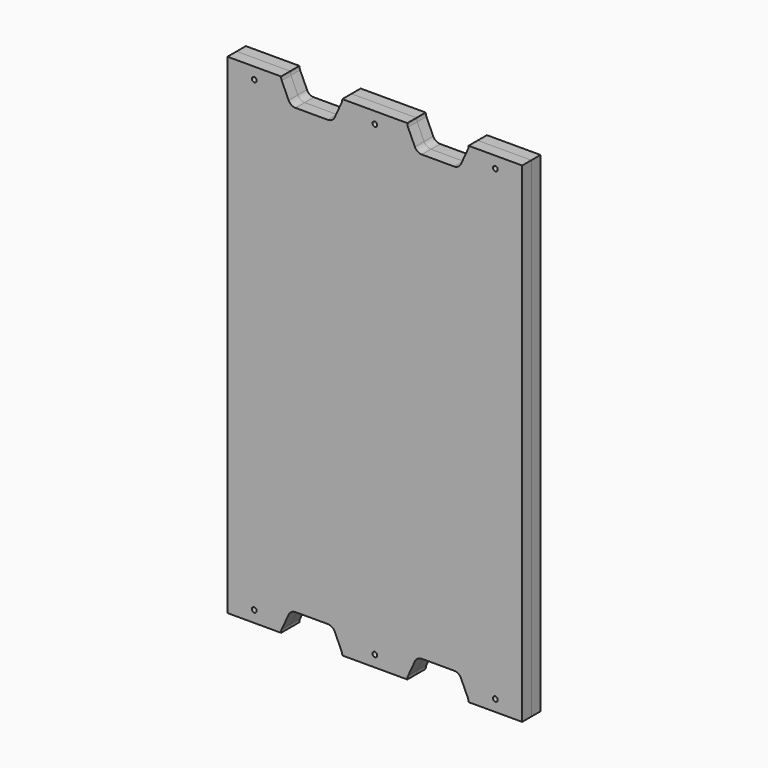
from build123d import *

# Parameters (mm, degrees)
F0_R     = 1.984375
F1_DEPTH = 9.525
F2_DEPTH = 9.525


with BuildPart() as f1:
    # F0 (on Front) → F1 (new body)
    with BuildSketch(Plane.XZ):
        with BuildLine():
            Line((-77.409625, 189.415018), (-121.859625, 189.415018))
            Line((-121.859625, 189.415018), (-121.859625, -216.984982))
            Line((-121.859625, -216.984982), (-77.409625, -216.984982))
            Line((-77.409625, -216.984982), (-77.409625, -216.772931))
            ThreePointArc((-77.409625, -216.772931), (-77.265701, -215.428637), (-76.840451, -214.14528))
            Line((-76.840451, -214.14528), (-71.164103, -201.65733))
            ThreePointArc((-71.164103, -201.65733), (-68.821075, -198.946064), (-65.383277, -197.934982))
            Line((-65.383277, -197.934982), (-38.635973, -197.934982))
            ThreePointArc((-38.635973, -197.934982), (-35.198175, -198.946064), (-32.855147, -201.65733))
            Line((-32.855147, -201.65733), (-27.178799, -214.14528))
            ThreePointArc((-27.178799, -214.14528), (-26.75355, -215.428637), (-26.609625, -216.772931))
            Line((-26.609625, -216.772931), (-26.609625, -216.984982))
            Line((-26.609625, -216.984982), (27.365375, -216.984982))
            Line((27.365375, -216.984982), (27.365375, -216.772931))
            ThreePointArc((27.365375, -216.772931), (27.509299, -215.428637), (27.934549, -214.14528))
            Line((27.934549, -214.14528), (33.610897, -201.65733))
            ThreePointArc((33.610897, -201.65733), (35.953925, -198.946064), (39.391723, -197.934982))
            Line((39.391723, -197.934982), (66.139027, -197.934982))
            ThreePointArc((66.139027, -197.934982), (69.576825, -198.946064), (71.919853, -201.65733))
            Line((71.919853, -201.65733), (77.596201, -214.14528))
            ThreePointArc((77.596201, -214.14528), (78.02145, -215.428637), (78.165375, -216.772931))
            Line((78.165375, -216.772931), (78.165375, -216.984982))
            Line((78.165375, -216.984982), (122.615375, -216.984982))
            Line((122.615375, -216.984982), (122.615375, 189.415018))
            Line((122.615375, 189.415018), (78.165375, 189.415018))
            Line((78.165375, 189.415018), (78.165375, 189.202968))
            ThreePointArc((78.165375, 189.202968), (78.02145, 187.858673), (77.596201, 186.575316))
            Line((77.596201, 186.575316), (71.919853, 174.087367))
            ThreePointArc((71.919853, 174.087367), (69.576825, 171.3761), (66.139027, 170.365018))
            Line((66.139027, 170.365018), (39.391723, 170.365018))
            ThreePointArc((39.391723, 170.365018), (35.953925, 171.3761), (33.610897, 174.087367))
            Line((33.610897, 174.087367), (27.934549, 186.575316))
            ThreePointArc((27.934549, 186.575316), (27.509299, 187.858673), (27.365375, 189.202968))
            Line((27.365375, 189.202968), (27.365375, 189.415018))
            Line((27.365375, 189.415018), (-26.609625, 189.415018))
            Line((-26.609625, 189.415018), (-26.609625, 189.202968))
            ThreePointArc((-26.609625, 189.202968), (-26.75355, 187.858673), (-27.178799, 186.575316))
            Line((-27.178799, 186.575316), (-32.855147, 174.087367))
            ThreePointArc((-32.855147, 174.087367), (-35.198175, 171.3761), (-38.635973, 170.365018))
            Line((-38.635973, 170.365018), (-65.383277, 170.365018))
            ThreePointArc((-65.383277, 170.365018), (-68.821075, 171.3761), (-71.164103, 174.087367))
            Line((-71.164103, 174.087367), (-76.840451, 186.575316))
            ThreePointArc((-76.840451, 186.575316), (-77.265701, 187.858673), (-77.409625, 189.202968))
            Line((-77.409625, 189.202968), (-77.409625, 189.415018))
        make_face()
        with Locations((-99.634625, -207.459982)):
            Circle(F0_R, mode=Mode.SUBTRACT)
        with Locations((0.377875, -207.459982)):
            Circle(F0_R, mode=Mode.SUBTRACT)
        with Locations((100.390375, -207.459982)):
            Circle(F0_R, mode=Mode.SUBTRACT)
        with Locations((-99.634625, 179.890018)):
            Circle(F0_R, mode=Mode.SUBTRACT)
        with Locations((0.377875, 179.890018)):
            Circle(F0_R, mode=Mode.SUBTRACT)
        with Locations((100.390375, 179.890018)):
            Circle(F0_R, mode=Mode.SUBTRACT)
    extrude(amount=F1_DEPTH)


with BuildPart() as f2:
    # F0 (on Front) → F2 (new body)
    with BuildSketch(Plane.XZ):
        with BuildLine():
            Line((-77.409625, 189.415018), (-121.859625, 189.415018))
            Line((-121.859625, 189.415018), (-121.859625, -216.984982))
            Line((-121.859625, -216.984982), (-77.409625, -216.984982))
            Line((-77.409625, -216.984982), (-77.409625, -216.772931))
            ThreePointArc((-77.409625, -216.772931), (-77.265701, -215.428637), (-76.840451, -214.14528))
            Line((-76.840451, -214.14528), (-71.164103, -201.65733))
            ThreePointArc((-71.164103, -201.65733), (-68.821075, -198.946064), (-65.383277, -197.934982))
            Line((-65.383277, -197.934982), (-38.635973, -197.934982))
            ThreePointArc((-38.635973, -197.934982), (-35.198175, -198.946064), (-32.855147, -201.65733))
            Line((-32.855147, -201.65733), (-27.178799, -214.14528))
            ThreePointArc((-27.178799, -214.14528), (-26.75355, -215.428637), (-26.609625, -216.772931))
            Line((-26.609625, -216.772931), (-26.609625, -216.984982))
            Line((-26.609625, -216.984982), (27.365375, -216.984982))
            Line((27.365375, -216.984982), (27.365375, -216.772931))
            ThreePointArc((27.365375, -216.772931), (27.509299, -215.428637), (27.934549, -214.14528))
            Line((27.934549, -214.14528), (33.610897, -201.65733))
            ThreePointArc((33.610897, -201.65733), (35.953925, -198.946064), (39.391723, -197.934982))
            Line((39.391723, -197.934982), (66.139027, -197.934982))
            ThreePointArc((66.139027, -197.934982), (69.576825, -198.946064), (71.919853, -201.65733))
            Line((71.919853, -201.65733), (77.596201, -214.14528))
            ThreePointArc((77.596201, -214.14528), (78.02145, -215.428637), (78.165375, -216.772931))
            Line((78.165375, -216.772931), (78.165375, -216.984982))
            Line((78.165375, -216.984982), (122.615375, -216.984982))
            Line((122.615375, -216.984982), (122.615375, 189.415018))
            Line((122.615375, 189.415018), (78.165375, 189.415018))
            Line((78.165375, 189.415018), (78.165375, 189.202968))
            ThreePointArc((78.165375, 189.202968), (78.02145, 187.858673), (77.596201, 186.575316))
            Line((77.596201, 186.575316), (71.919853, 174.087367))
            ThreePointArc((71.919853, 174.087367), (69.576825, 171.3761), (66.139027, 170.365018))
            Line((66.139027, 170.365018), (39.391723, 170.365018))
            ThreePointArc((39.391723, 170.365018), (35.953925, 171.3761), (33.610897, 174.087367))
            Line((33.610897, 174.087367), (27.934549, 186.575316))
            ThreePointArc((27.934549, 186.575316), (27.509299, 187.858673), (27.365375, 189.202968))
            Line((27.365375, 189.202968), (27.365375, 189.415018))
            Line((27.365375, 189.415018), (-26.609625, 189.415018))
            Line((-26.609625, 189.415018), (-26.609625, 189.202968))
            ThreePointArc((-26.609625, 189.202968), (-26.75355, 187.858673), (-27.178799, 186.575316))
            Line((-27.178799, 186.575316), (-32.855147, 174.087367))
            ThreePointArc((-32.855147, 174.087367), (-35.198175, 171.3761), (-38.635973, 170.365018))
            Line((-38.635973, 170.365018), (-65.383277, 170.365018))
            ThreePointArc((-65.383277, 170.365018), (-68.821075, 171.3761), (-71.164103, 174.087367))
            Line((-71.164103, 174.087367), (-76.840451, 186.575316))
            ThreePointArc((-76.840451, 186.575316), (-77.265701, 187.858673), (-77.409625, 189.202968))
            Line((-77.409625, 189.202968), (-77.409625, 189.415018))
        make_face()
        with Locations((-99.634625, -207.459982)):
            Circle(F0_R, mode=Mode.SUBTRACT)
        with Locations((0.377875, -207.459982)):
            Circle(F0_R, mode=Mode.SUBTRACT)
        with Locations((100.390375, -207.459982)):
            Circle(F0_R, mode=Mode.SUBTRACT)
        with Locations((-99.634625, 179.890018)):
            Circle(F0_R, mode=Mode.SUBTRACT)
        with Locations((0.377875, 179.890018)):
            Circle(F0_R, mode=Mode.SUBTRACT)
        with Locations((100.390375, 179.890018)):
            Circle(F0_R, mode=Mode.SUBTRACT)
    extrude(amount=-F2_DEPTH)


solid = Compound([f1.part, f2.part])
